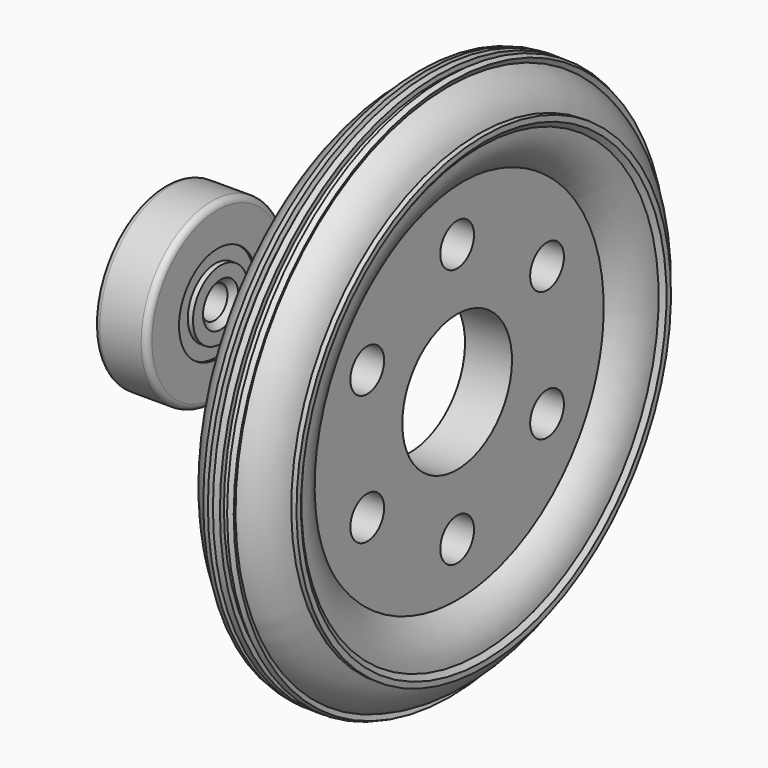
from build123d import *

# Parameters (mm, degrees)
F2_W     = 7.8280302696
F2_H     = 21.9184905291
F4_R     = 3.5177761261
F5_DEPTH = 12.5
F8_W     = 9.2153809965
F8_H     = 2.538329456


with BuildPart() as f1:
    # F0 (on Front) → F1 (revolve)
    with BuildSketch(Plane.XZ):
        with BuildLine():
            Line((-2.448910804, 45.1583131531), (-2.2303329262, 44.3424042299))
            ThreePointArc((-2.2303329262, 44.3424042299), (-4.4470889171, 30.9746451426), (7.5723387442, 37.2311896229))
            Line((7.5723387442, 37.2311896229), (8.1936289268, 38.0867309868))
            Line((8.1936289268, 38.0867309868), (8.1936289268, 39.0325889687))
            Line((8.1936289268, 39.0325889687), (7.3239452709, 39.0325889687))
            ThreePointArc((7.3239452709, 39.0325889687), (5.4785376023, 42.3338190258), (2.2668786022, 44.3310410516))
            Line((2.2668786022, 44.3310410516), (2.603758731, 45.1233045113))
            Line((2.603758731, 45.1233045113), (1.7833057791, 45.4721711576))
            Line((1.7833057791, 45.4721711576), (1.3909472033, 44.5494353354))
            Line((1.3909472033, 44.5494353354), (0.5940709962, 44.6549274199))
            Line((0.5940709962, 44.6549274199), (0.5940709962, 45.4969443788))
            Line((0.5940709962, 45.4969443788), (-0.5673570863, 45.4969443788))
            Line((-0.5673570863, 45.4969443788), (-0.5673570863, 44.656981846))
            ThreePointArc((-0.5673570863, 44.656981846), (-0.9024282868, 44.6243055181), (-1.2357162187, 44.576770203))
            Line((-1.2357162187, 44.576770203), (-1.4623143943, 45.422617346))
            Line((-1.4623143943, 45.422617346), (-2.448910804, 45.1583131531))
        make_face()
    revolve(axis=Axis((21.7619277537, 0, 0), (1, 0, 0)))


with BuildPart() as f3:
    # F2 (on Front) → F3 (revolve)
    with BuildSketch(Plane.XZ):
        with Locations((-0.1565602142, 22.3881714046)):
            Rectangle(F2_W, F2_H)
    revolve(axis=Axis((21.7619277537, 0, 0), (1, 0, 0)))

    # F4 (on Right) → F5 (cut, symmetric)
    with BuildSketch(Plane.YZ):
        with Locations((0, 21.6333791614)):
            Circle(F4_R)
        with Locations((-18.7350559234, 10.8166895807)):
            Circle(F4_R)
        with Locations((-18.7350559234, -10.8166895807)):
            Circle(F4_R)
        with Locations((0, -21.6333791614)):
            Circle(F4_R)
        with Locations((18.7350559234, -10.8166895807)):
            Circle(F4_R)
        with Locations((18.7350559234, 10.8166895807)):
            Circle(F4_R)
    extrude(amount=F5_DEPTH, both=True, mode=Mode.SUBTRACT)


with BuildPart() as f7:
    # F6 (on Front) → F7 (revolve)
    with BuildSketch(Plane.XZ):
        with BuildLine():
            Line((-37.1579693854, 14.7209297866), (-44.0352376103, 14.7209297866))
            ThreePointArc((-44.0352376103, 14.7209297866), (-44.7423443915, 14.4280365677), (-45.0352376103, 13.7209297866))
            Line((-45.0352376103, 13.7209297866), (-45.0352376103, 8.072768338))
            Line((-45.0352376103, 8.072768338), (-36.1579693854, 8.072768338))
            Line((-36.1579693854, 8.072768338), (-36.1579693854, 13.7209297866))
            ThreePointArc((-36.1579693854, 13.7209297866), (-36.4508626042, 14.4280365677), (-37.1579693854, 14.7209297866))
        make_face()
    revolve(axis=Axis((21.7619277537, 0, 0), (1, 0, 0)))


with BuildPart() as f9:
    # F8 (on face) → F9 (revolve)
    with BuildSketch(Plane.XZ):
        with Locations((-41.1484930664, 6.801438285)):
            Rectangle(F8_W, F8_H)
    revolve(axis=Axis((21.7619277537, 0, 0), (1, 0, 0)))


with BuildPart() as f11:
    # F10 (on face) → F11 (revolve)
    with BuildSketch(Plane.XZ):
        Polygon((-35.6739535928, 5.7603069581), (-46.5064756572, 5.7603069581), (-46.5064756572, 3.6750911493), (-45.5064756572, 2.6750911493), (-36.6739535928, 2.6750911493), (-35.6739535928, 3.6750911493), align=None)
    revolve(axis=Axis((21.7619277537, 0, 0), (1, 0, 0)))


solid = Compound([f1.part, f3.part, f7.part, f9.part, f11.part])
